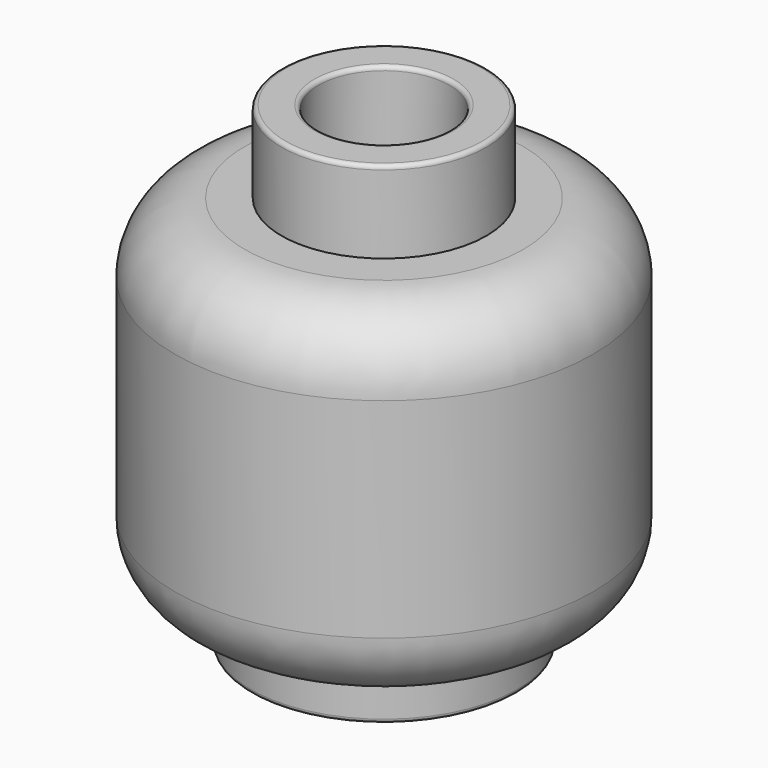
from build123d import *

# Parameters (mm, degrees)
F0_R     = 3.25
F1_DEPTH = 1.1
F2_R     = 5.1
F3_DEPTH = 8.5
F4_R     = 2.5
F4_R_2   = 1.6
F5_DEPTH = 2
F6_R     = 2.5
F7_DEPTH = 8.5
F8_R     = 0.1
F9_R     = 1.7


with BuildPart() as f1:
    # F0 (on Top) → F1 (new body)
    with BuildSketch(Plane.XY):
        Circle(F0_R)
    extrude(amount=F1_DEPTH)

    # F2 (on face) → F3 (join)
    with BuildSketch(Plane.XY.offset(1.1)):
        Circle(F2_R)
    extrude(amount=F3_DEPTH)

    # F4 (on face) → F5 (join)
    with BuildSketch(Plane.XY.offset(9.6)):
        Circle(F4_R)
        Circle(F4_R_2, mode=Mode.SUBTRACT)
    extrude(amount=F5_DEPTH)

    # F6 (on face) → F7 (cut)
    with BuildSketch(Plane(origin=(0, 0, 0), x_dir=(1, 0, 0), z_dir=(0, 0, -1))):
        Circle(F6_R)
        Circle(F6_R)
    extrude(amount=-F7_DEPTH, mode=Mode.SUBTRACT)

    # F8
    f8_edges = [f1.edges().sort_by_distance(p)[0] for p in [
        (-3.25, 0, 0),
        (-2.5, 0, 11.6),
        (-1.6, 0, 11.6),
    ]]
    fillet(f8_edges, radius=F8_R)

    # F9
    f9_edges = [f1.edges().sort_by_distance(p)[0] for p in [
        (-5.1, 0, 9.6),
        (-5.1, 0, 1.1),
    ]]
    fillet(f9_edges, radius=F9_R)


solid = f1.part
